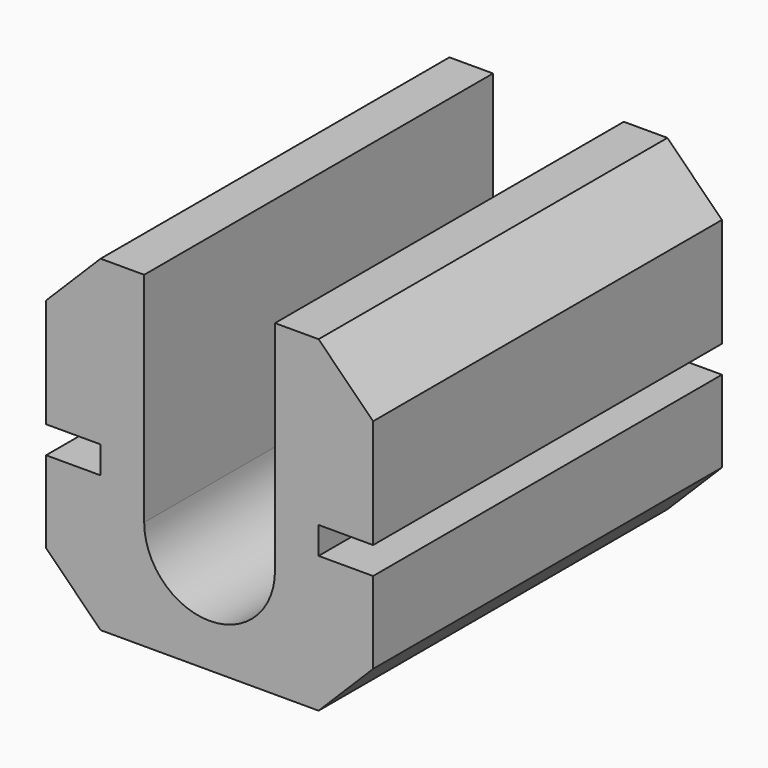
from build123d import *

# Parameters (mm, degrees)
F3_DEPTH = 25.4
F2_W     = 6.35
F2_H     = 3.175
F1_W     = 6.35
F1_H     = 3.175
F4_DEPTH = 25.4
F6_DEPTH = 25.4


with BuildPart() as f3:
    # F0 (on Front) → F3 (new body, symmetric)
    with BuildSketch(Plane.XZ):
        Polygon((12.7, 19.05), (-12.7, 19.05), (-19.05, 12.7), (-19.05, -12.7), (-12.7, -19.05), (12.7, -19.05), (19.05, -12.7), (19.05, 12.7), align=None)
    extrude(amount=F3_DEPTH, both=True)

    # F2 (on Front) + F1 (on Front) → F4 (cut, symmetric)
    with BuildSketch(Plane.XZ):
        with Locations((15.875, -1.5875)):
            Rectangle(F2_W, F2_H)
    with BuildSketch(Plane.XZ):
        with Locations((-15.875, -1.5875)):
            Rectangle(F1_W, F1_H)
    extrude(amount=F4_DEPTH, both=True, mode=Mode.SUBTRACT)

    # F5 (on Front) → F6 (cut, symmetric)
    with BuildSketch(Plane.XZ):
        with BuildLine():
            Line((7.62, 19.05), (-7.62, 19.05))
            Line((-7.62, 19.05), (-7.62, -6.35))
            ThreePointArc((-7.62, -6.35), (0, -13.97), (7.62, -6.35))
            Line((7.62, -6.35), (7.62, 19.05))
        make_face()
    extrude(amount=F6_DEPTH, both=True, mode=Mode.SUBTRACT)


solid = f3.part
